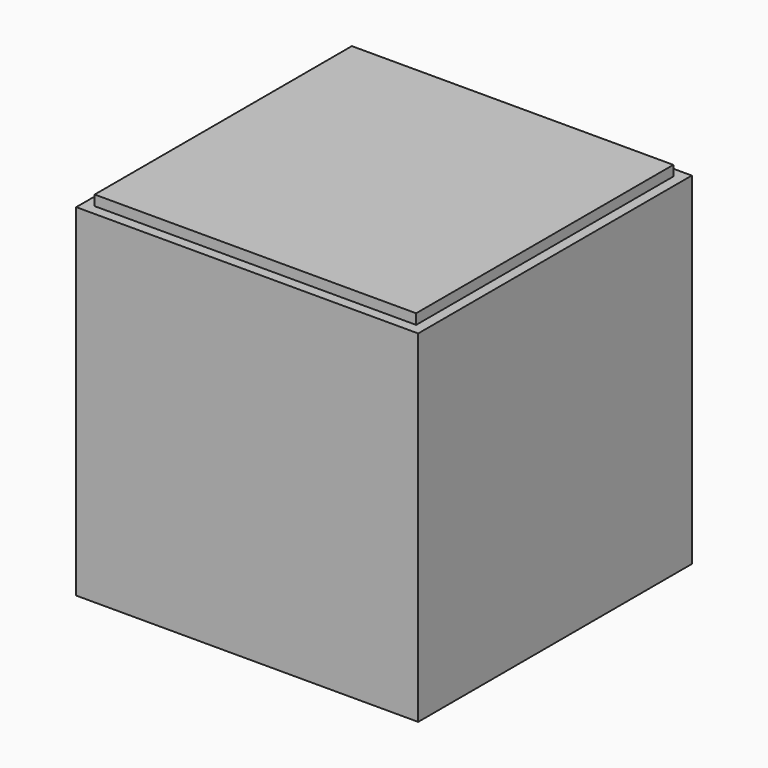
from build123d import *

# Parameters (mm, degrees)
F0_W     = 200
F0_H     = 200
F1_DEPTH = 100
F2_W     = 188
F2_H     = 188
F3_DEPTH = 6


with BuildPart() as f1:
    # F0 (on Front) → F1 (new body, symmetric)
    with BuildSketch(Plane.XZ):
        Rectangle(F0_W, F0_H)
    extrude(amount=F1_DEPTH, both=True)


with BuildPart() as f3:
    # F2 (on face) → F3 (new body)
    with BuildSketch(Plane.XY.offset(100)):
        Rectangle(F2_W, F2_H)
    extrude(amount=F3_DEPTH)


solid = Compound([f1.part, f3.part])
